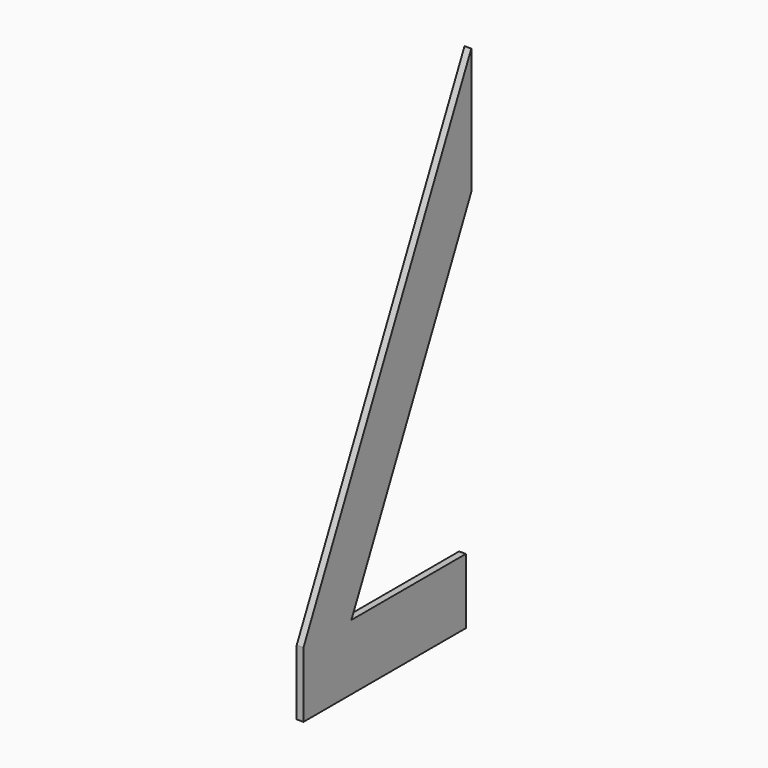
from build123d import *

# Parameters (mm, degrees)
F1_DEPTH = 9.525


with BuildPart() as f1:
    # F0 (on Right) → F1 (new body)
    with BuildSketch(Plane.YZ):
        Polygon((-76.2, 546.145316), (-76.2, 723.9), (-371.475, 101.6), (-287.132216, 101.6), align=None)
        Polygon((-177.8, 9.525), (-85.725, 9.525), (-85.725, 101.6), (-287.132216, 101.6), (-371.475, 101.6), (-371.475, 9.525), (-279.4, 9.525), align=None)
    extrude(amount=F1_DEPTH)


solid = f1.part
